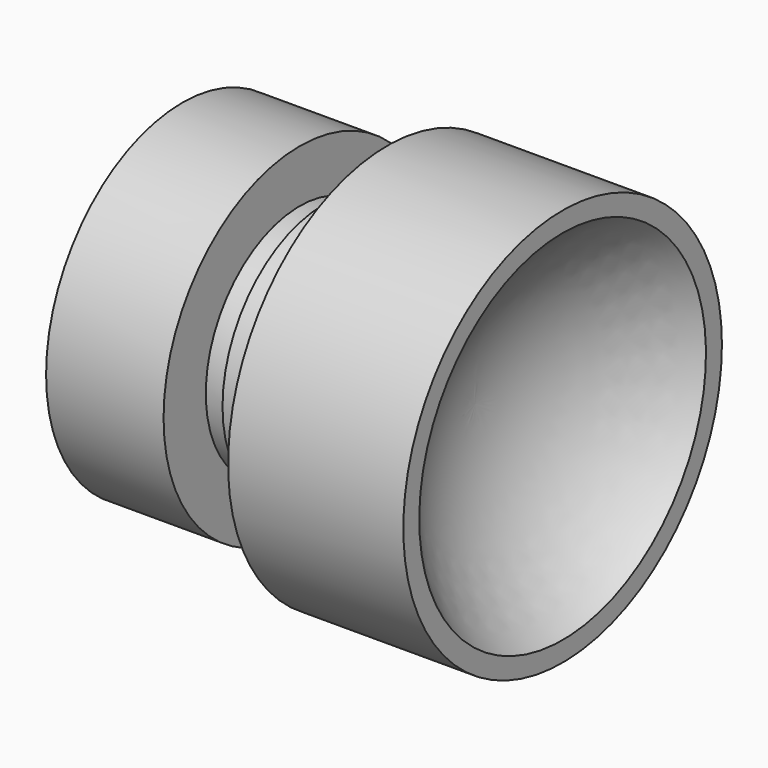
from build123d import *

# Parameters (mm, degrees)
F0_R     = 5
F1_DEPTH = 4.4
F2_R     = 3.175
F3_DEPTH = 1.6
F5_R     = 2.95
F6_DEPTH = 0.6
F8_R     = 4.275
F9_DEPTH = 2.95


with BuildPart() as f1:
    # F0 (on Right) → F1 (new body)
    with BuildSketch(Plane.YZ):
        Circle(F0_R)
    extrude(amount=F1_DEPTH)

    # F2 (on Right) → F3 (join)
    with BuildSketch(Plane.YZ):
        Circle(F2_R)
    extrude(amount=-F3_DEPTH)

    # F5 (on offset) → F6 (join)
    with BuildSketch(Plane.YZ.offset(-1.6)):
        Circle(F5_R)
    extrude(amount=-F6_DEPTH)

    # F8 (on offset) → F9 (join)
    with BuildSketch(Plane.YZ.offset(-2.2)):
        Circle(F8_R)
    extrude(amount=-F9_DEPTH)

    # F10 (on Front) → F11 (revolve, cut)
    with BuildSketch(Plane.XZ):
        with BuildLine():
            Line((4.4, 0), (4.4, 4.5))
            ThreePointArc((4.4, 4.5), (2.77944, 2.504496), (2.2, 0))
            Line((2.2, 0), (4.4, 0))
        make_face()
    revolve(axis=Axis((3.3, 0, 0), (-1, 0, 0)), mode=Mode.SUBTRACT)


solid = f1.part
